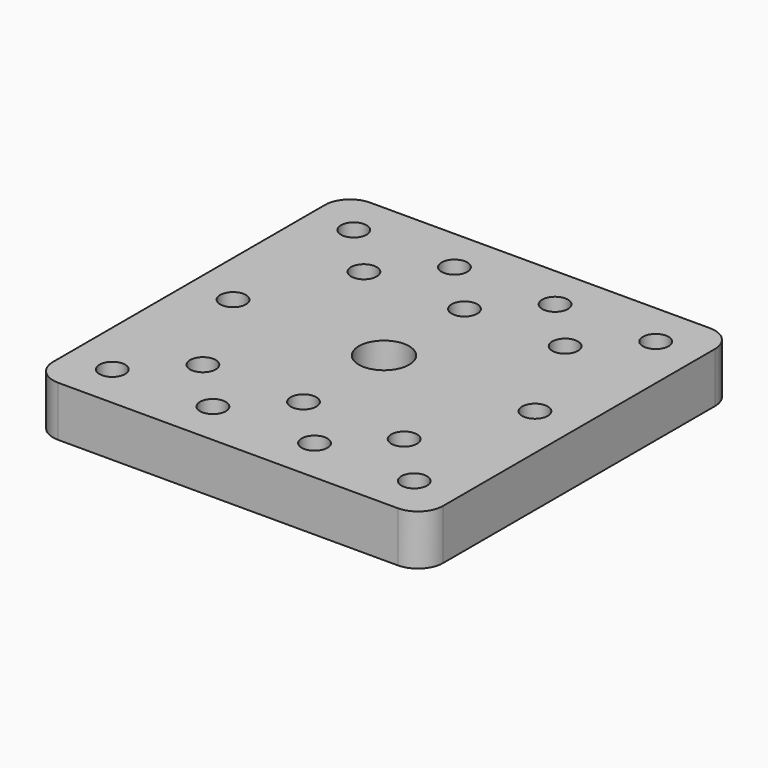
from build123d import *

# Parameters (mm, degrees)
F0_W     = 77.51
F0_H     = 77.519
F0_R     = 2.55
F0_W_2   = 29.902
F0_H_2   = 29.9
F0_R_2   = 5
F1_DEPTH = 10
F2_DEPTH = 3
F3_R     = 5


with BuildPart() as f1:
    # F0 (on Top) → F1 (new body)
    with BuildSketch(Plane.XY):
        Rectangle(F0_W, F0_H)
        with Locations((-30, -29.9995)):
            Circle(F0_R, mode=Mode.SUBTRACT)
        with Locations((-20, -19.9995)):
            Circle(F0_R, mode=Mode.SUBTRACT)
        with Locations((-10, -29.9995)):
            Circle(F0_R, mode=Mode.SUBTRACT)
        with Locations((10, -29.751634)):
            Circle(F0_R, mode=Mode.SUBTRACT)
        with Locations((0, -19.9995)):
            Circle(F0_R, mode=Mode.SUBTRACT)
        with Locations((30, -29.9995)):
            Circle(F0_R, mode=Mode.SUBTRACT)
        with Locations((20, -19.9995)):
            Circle(F0_R, mode=Mode.SUBTRACT)
        with Locations((-30, 0)):
            Circle(F0_R, mode=Mode.SUBTRACT)
        with Locations((-20, 19.9995)):
            Circle(F0_R, mode=Mode.SUBTRACT)
        with Locations((-30, 29.9995)):
            Circle(F0_R, mode=Mode.SUBTRACT)
        with Locations((-10, 29.9995)):
            Circle(F0_R, mode=Mode.SUBTRACT)
        Rectangle(F0_W_2, F0_H_2, mode=Mode.SUBTRACT)
        with Locations((30, 0)):
            Circle(F0_R, mode=Mode.SUBTRACT)
        with Locations((0, 19.9995)):
            Circle(F0_R, mode=Mode.SUBTRACT)
        with Locations((10, 29.9995)):
            Circle(F0_R, mode=Mode.SUBTRACT)
        with Locations((20, 19.9995)):
            Circle(F0_R, mode=Mode.SUBTRACT)
        with Locations((30, 29.9995)):
            Circle(F0_R, mode=Mode.SUBTRACT)
        Rectangle(F0_W_2, F0_H_2)
        Circle(F0_R_2, mode=Mode.SUBTRACT)
    extrude(amount=F1_DEPTH)

    # F0 (on Top) → F2 (cut)
    with BuildSketch(Plane.XY):
        Rectangle(F0_W_2, F0_H_2)
        Circle(F0_R_2, mode=Mode.SUBTRACT)
    extrude(amount=F2_DEPTH, mode=Mode.SUBTRACT)

    # F3
    f3_edges = [f1.edges().sort_by_distance(p)[0] for p in [
        (38.755, -38.7595, 5),
        (-38.755, -38.7595, 5),
        (38.755, 38.7595, 5),
        (-38.755, 38.7595, 5),
    ]]
    fillet(f3_edges, radius=F3_R)


solid = f1.part
